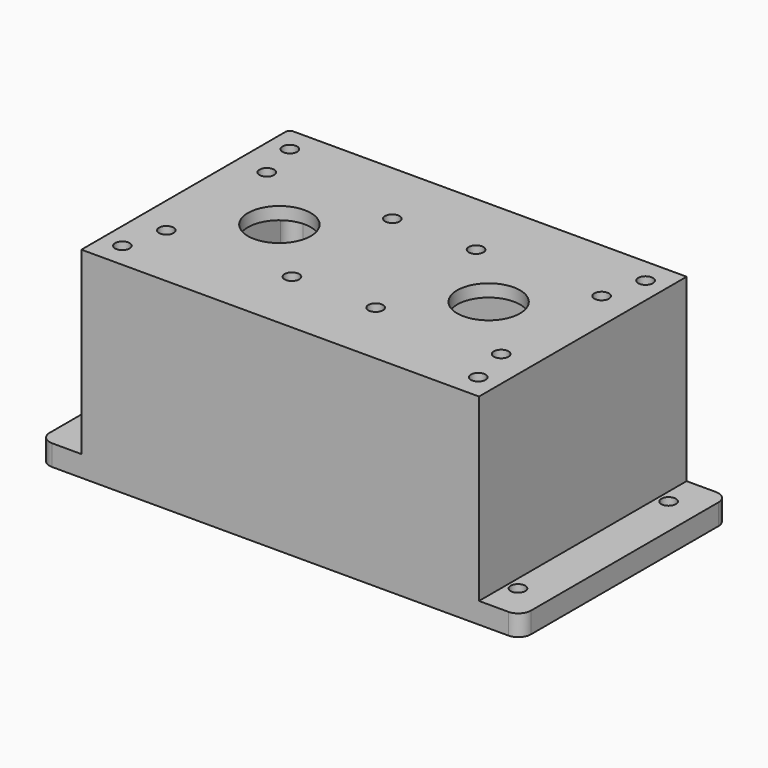
from build123d import *

# Parameters (mm, degrees)
SKETCH_W        = 115
SKETCH_H        = 62
SKETCH_R        = 1.75
PAD_DEPTH       = 5
FILLET_R        = 1
FILLET001_R     = 1
FILLET002_R     = 3
PAD001_DEPTH    = 40
SKETCH002_W     = 95
SKETCH002_H     = 62
PAD002_DEPTH    = 3
FILLET003_R     = 3
FILLET004_R     = 1
SKETCH003_W     = 40
SKETCH003_H     = 15
POCKET_DEPTH    = 5
SKETCH004_R     = 1.75
POCKET001_DEPTH = 5
FILLET005_R     = 4
POCKET002_DEPTH = 5
SKETCH006_W     = 95
SKETCH006_H     = 43
POCKET003_DEPTH = 1
SKETCH007_W     = 95
SKETCH007_H     = 43
PAD003_DEPTH    = 1
PAD004_DEPTH    = 1
FILLET006_R     = 1


with BuildPart() as part:
    # Sketch → Pad (new body)
    with BuildSketch(Plane.XY):
        Rectangle(SKETCH_W, SKETCH_H)
        with Locations((-50, 22.5)):
            Circle(SKETCH_R, mode=Mode.SUBTRACT)
        with Locations((50, 22.5)):
            Circle(SKETCH_R, mode=Mode.SUBTRACT)
        with Locations((-50, -22.5)):
            Circle(SKETCH_R, mode=Mode.SUBTRACT)
        with Locations((50, -22.5)):
            Circle(SKETCH_R, mode=Mode.SUBTRACT)
        with BuildLine():
            ThreePointArc((-40.5, 15), (-42.62132, 14.12132), (-43.5, 12))
            Line((-43.5, -12), (-43.5, 12))
            ThreePointArc((-43.5, -12), (-42.62132, -14.12132), (-40.5, -15))
            Line((-40.5, -15), (-31.5, -15))
            ThreePointArc((-31.5, -15), (-29.37868, -14.12132), (-28.5, -12))
            Line((-28.5, 12), (-28.5, -12))
            ThreePointArc((-28.5, 12), (-29.37868, 14.12132), (-31.5, 15))
            Line((-40.5, 15), (-31.5, 15))
        make_face(mode=Mode.SUBTRACT)
    extrude(amount=PAD_DEPTH)

    # Fillet
    fillet_edges = [part.edges().sort_by_distance(p)[0] for p in [
        (-36, -15, 0),
        (-29.37868, -14.12132, 0),
        (-28.5, 0, 0),
        (-42.62132, -14.12132, 0),
        (-43.5, 0, 0),
        (-42.62132, 14.12132, 0),
        (-36, 15, 0),
        (-29.37868, 14.12132, 0),
    ]]
    fillet(fillet_edges, radius=FILLET_R)

    # Fillet001
    fillet001_edges = [part.edges().sort_by_distance(p)[0] for p in [
        (-43.5, 0, 5),
        (-42.62132, -14.12132, 5),
        (-36, -15, 5),
        (-29.37868, -14.12132, 5),
        (-28.5, 0, 5),
        (-29.37868, 14.12132, 5),
        (-36, 15, 5),
        (-42.62132, 14.12132, 5),
    ]]
    fillet(fillet001_edges, radius=FILLET001_R)

    # Fillet002
    fillet002_edges = [part.edges().sort_by_distance(p)[0] for p in [
        (-57.5, -31, 2.5),
        (-57.5, 31, 2.5),
        (57.5, -31, 2.5),
        (57.5, 31, 2.5),
    ]]
    fillet(fillet002_edges, radius=FILLET002_R)

    # Sketch001 (on Face1 of Fillet002) → Pad001 (join)
    with BuildSketch(Plane.XY.offset(5)):
        Polygon((-47.5, 31), (47.5, 31), (47.5, -31), (45.5, -31), (45.5, 29), (-45.5, 29), (-45.5, -31), (-47.5, -31), align=None)
    extrude(amount=PAD001_DEPTH)

    # Sketch002 (on Face15 of Pad001) → Pad002 (join)
    with BuildSketch(Plane.XY.offset(45)):
        Rectangle(SKETCH002_W, SKETCH002_H)
    extrude(amount=PAD002_DEPTH)

    # Fillet003
    fillet003_edges = [part.edges().sort_by_distance(p)[0] for p in [
        (-45.5, 29, 25),
        (45.5, 29, 25),
    ]]
    fillet(fillet003_edges, radius=FILLET003_R)

    # Fillet004
    fillet004_edges = [part.edges().sort_by_distance(p)[0] for p in [
        (-47.5, 31, 25),
        (-45.5, -2.5, 45),
        (-44.62132, 28.12132, 45),
        (0, 29, 45),
        (44.62132, 28.12132, 45),
        (45.5, -2.5, 45),
    ]]
    fillet(fillet004_edges, radius=FILLET004_R)

    # Sketch003 (on Face21 of Fillet004) → Pocket (cut)
    with BuildSketch(Plane(origin=(-47.5, 0, 0), x_dir=(0, -1, 0), z_dir=(-1, 0, 0))):
        with Locations((0, 15)):
            Rectangle(SKETCH003_W, SKETCH003_H)
    extrude(amount=-POCKET_DEPTH, mode=Mode.SUBTRACT)

    # Sketch004 → Pocket001 (cut)
    with BuildSketch(Plane.XY.offset(48)):
        with Locations((-40, -15)):
            Circle(SKETCH004_R)
        with Locations((-40, 15)):
            Circle(SKETCH004_R)
        with Locations((-10, 15)):
            Circle(SKETCH004_R)
        with Locations((10, 15)):
            Circle(SKETCH004_R)
        with Locations((40, 15)):
            Circle(SKETCH004_R)
        with Locations((40, -15)):
            Circle(SKETCH004_R)
        with Locations((10, -15)):
            Circle(SKETCH004_R)
        with Locations((-10, -15)):
            Circle(SKETCH004_R)
        with Locations((-42.5, -25)):
            Circle(SKETCH004_R)
        with Locations((-42.5, 25)):
            Circle(SKETCH004_R)
        with Locations((42.5, 25)):
            Circle(SKETCH004_R)
        with Locations((42.5, -25)):
            Circle(SKETCH004_R)
        with BuildLine():
            ThreePointArc((-17.5, 0), (-25, 7.5), (-32.5, 0))
            ThreePointArc((-32.5, 0), (-25, -7.5), (-17.5, 0))
        make_face()
        with BuildLine():
            ThreePointArc((32.5, 0), (25, 7.5), (17.5, 0))
            ThreePointArc((17.5, 0), (25, -7.5), (32.5, 0))
        make_face()
    extrude(amount=-POCKET001_DEPTH, mode=Mode.SUBTRACT)

    # Fillet005
    fillet005_edges = [part.edges().sort_by_distance(p)[0] for p in [
        (-46.5, 20, 22.5),
        (-46.5, 20, 7.5),
        (-46.5, -20, 22.5),
        (-46.5, -20, 7.5),
    ]]
    fillet(fillet005_edges, radius=FILLET005_R)

    # Sketch005 (on Face52 of Fillet005) → Pocket002 (cut)
    with BuildSketch(Plane(origin=(0, 0, 0), x_dir=(1, 0, 0), z_dir=(0, 0, -1))):
        with BuildLine():
            ThreePointArc((-40, 27), (-43.535534, 25.535534), (-45, 22))
            Line((-45, -22), (-45, 22))
            ThreePointArc((-45, -22), (-43.535534, -25.535534), (-40, -27))
            Line((40, -27), (-40, -27))
            ThreePointArc((40, -27), (43.535534, -25.535534), (45, -22))
            Line((45, 22), (45, -22))
            ThreePointArc((45, 22), (43.535534, 25.535534), (40, 27))
            Line((-40, 27), (40, 27))
        make_face()
    extrude(amount=-POCKET002_DEPTH, mode=Mode.SUBTRACT)

    # Sketch006 (on Face29 of Pocket002) → Pocket003 (cut)
    with BuildSketch(Plane.XZ.offset(31)):
        with Locations((0, 26.5)):
            Rectangle(SKETCH006_W, SKETCH006_H)
    extrude(amount=-POCKET003_DEPTH, mode=Mode.SUBTRACT)

    # Sketch007 (on Face4 of Pocket003) → Pad003 (join)
    with BuildSketch(Plane.XZ.offset(30)):
        with Locations((0, 26.5)):
            Rectangle(SKETCH007_W, SKETCH007_H)
    extrude(amount=PAD003_DEPTH)

    # Pad003 Face4 → Pad004 (add)
    with BuildSketch(Plane(origin=(0, -30, 24.997668), x_dir=(1, 0, 0), z_dir=(0, 1, 0))):
        with BuildLine():
            Line((45.5, -19.002332), (45.5, 19.997668))
            Line((45.5, 19.997668), (-45.5, 19.997668))
            Line((-45.5, 19.997668), (-45.5, -19.002332))
            ThreePointArc((-45.5, -19.002332), (-45.207107, -19.709439), (-44.5, -20.002332))
            Line((-44.5, -20.002332), (44.5, -20.002332))
            ThreePointArc((44.5, -20.002332), (45.207107, -19.709439), (45.5, -19.002332))
        make_face()
    extrude(amount=PAD004_DEPTH)

    # Fillet006
    fillet006_edges = [part.edges().sort_by_distance(p)[0] for p in [
        (0, -29, 45),
    ]]
    fillet(fillet006_edges, radius=FILLET006_R)


solid = part.part
